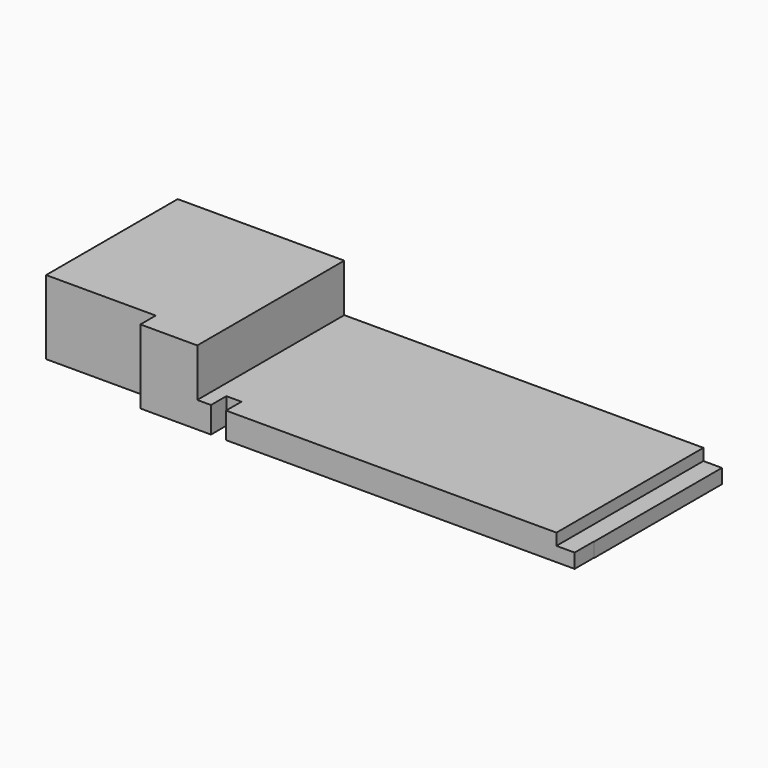
from build123d import *

# Parameters (mm, degrees)
F2_DEPTH = 2680
F0_W     = 1600
F0_H     = 550
F3_DEPTH = 1080
F4_DEPTH = 380


with BuildPart() as f2:
    # F1 (on Front) → F2 (new body, through all)
    with BuildSketch(Plane.XZ):
        Polygon((-9750, 0), (-1810, 0), (-1810, 210), (-2080, 210), (-2080, 380), (-7320, 380), (-7320, 1080), (-9750, 1080), align=None)
    extrude(amount=F2_DEPTH)

    # F0 (on Top) → F3 (cut, through all)
    with BuildSketch(Plane.XY):
        with Locations((-8950, -2675)):
            Rectangle(F0_W, F0_H)
    extrude(amount=F3_DEPTH, mode=Mode.SUBTRACT)

    # F0 (on Top) → F4 (cut, through all)
    with BuildSketch(Plane.XY):
        Polygon((-6900, -2400), (-7120, -2400), (-7120, -2950), (-6420, -2950), (-5360, -2950), (-2200, -2950), (-2200, -6950), (-1900, -7250), (-1900, -2950), (-1670, -2950), (-1670, -2475), (0, -2475), (0, -2330), (-1815, -2330), (-1815, -2680), (-6900, -2680), align=None)
    extrude(amount=F4_DEPTH, mode=Mode.SUBTRACT)


solid = f2.part
